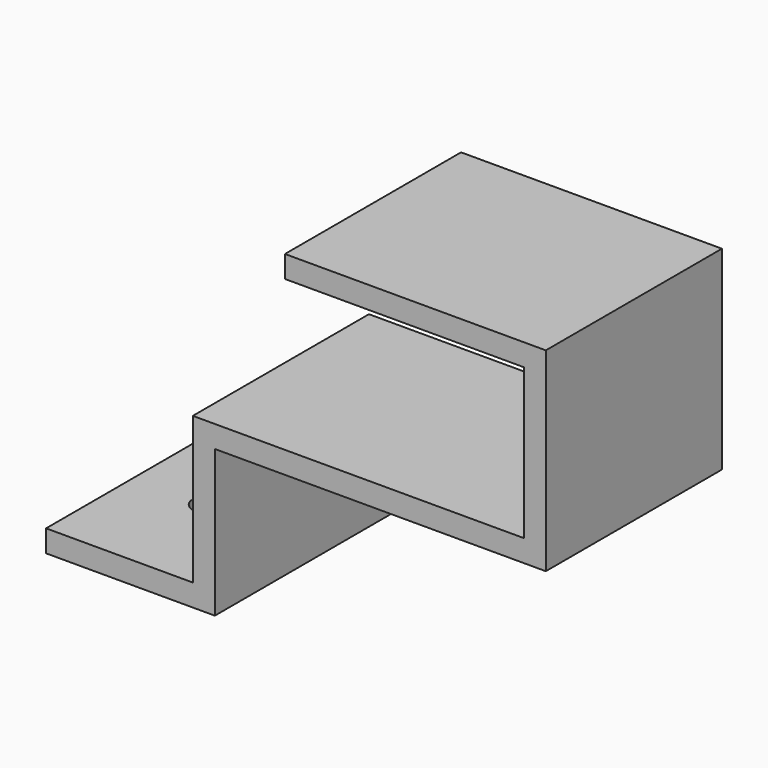
from build123d import *

# Parameters (mm, degrees)
F1_DEPTH      = 15
F1_DEPTH_BACK = 15
F2_R          = 2
F3_DEPTH      = 5
F3_DEPTH_BACK = 5
F4_R          = 2
F5_DEPTH      = 5
F5_DEPTH_BACK = 5


with BuildPart() as f1:
    # F0 (on Front) → F1 (new body, two sides)
    with BuildSketch(Plane.XZ) as f1_sk:
        Polygon((10, -10), (-10, -10), (-10, -13), (13, -13), (13, 7), (58.1, 7), (58.1, 33.5), (22.55, 33.5), (22.55, 30.5), (55.1, 30.5), (55.1, 10), (10, 10), align=None)
    extrude(amount=F1_DEPTH)
    extrude(f1_sk.sketch, amount=-F1_DEPTH_BACK)

    # F2 (on face) → F3 (cut, two sides)
    with BuildSketch(Plane.YZ.offset(13)) as f3_sk:
        Circle(F2_R)
    extrude(amount=-F3_DEPTH, mode=Mode.SUBTRACT)
    extrude(f3_sk.sketch, amount=-F3_DEPTH_BACK, mode=Mode.SUBTRACT)

    # F4 (on face) → F5 (cut, two sides)
    with BuildSketch(Plane(origin=(0, 0, -13), x_dir=(1, 0, 0), z_dir=(0, 0, -1))) as f5_sk:
        Circle(F4_R)
    extrude(amount=-F5_DEPTH, mode=Mode.SUBTRACT)
    extrude(f5_sk.sketch, amount=-F5_DEPTH_BACK, mode=Mode.SUBTRACT)


solid = f1.part
